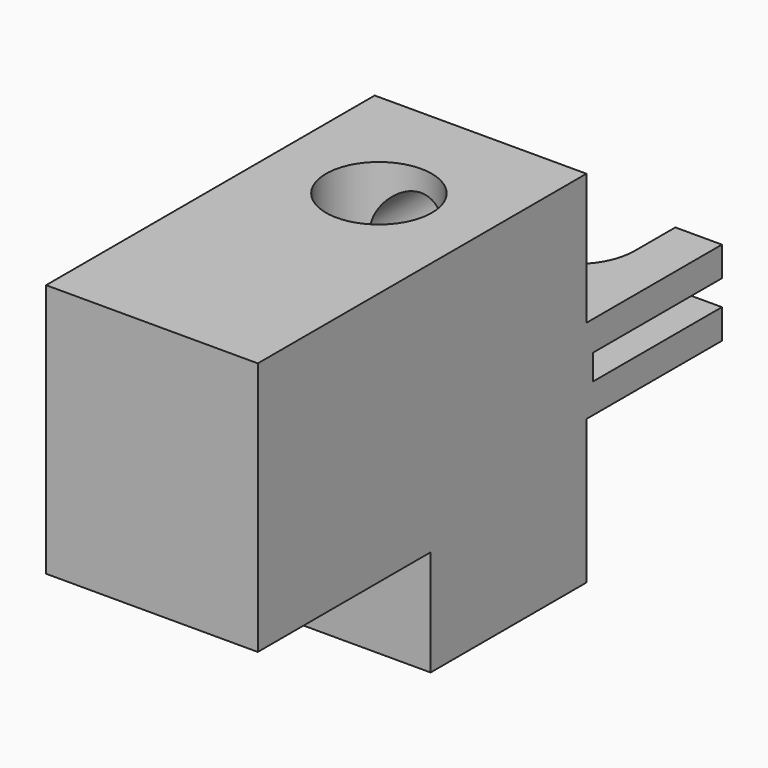
from build123d import *

# Parameters (mm, degrees)
F1_DEPTH = 5
F3_DEPTH = 5.401
F4_R     = 1.25
F5_DEPTH = 8.501
F6_R     = 0.9
F7_DEPTH = 7.7
F8_R     = 0.75
F9_DEPTH = 2.0010001


with BuildPart() as f1:
    # F0 (on Right) → F1 (new body)
    with BuildSketch(Plane.YZ):
        Polygon((9.7, 0), (0, 0), (0, -6), (5.1, -6), (5.1, -8.5), (9.7, -8.5), (9.7, -5.1), (13.7, -5.1), (13.7, -4.4), (9.9, -4.4), (9.9, -3.8), (13.7, -3.8), (13.7, -3.1), (9.7, -3.1), align=None)
    extrude(amount=F1_DEPTH)

    # F2 (on face) → F3 (cut, through all)
    with BuildSketch(Plane.XY.offset(-3.1)):
        with BuildLine():
            Line((1.1, 13.7), (1.1, 12.5))
            ThreePointArc((1.1, 12.5), (2.5, 11.1), (3.9, 12.5))
            Line((3.9, 12.5), (3.9, 13.7))
            Line((3.9, 13.7), (1.1, 13.7))
        make_face()
    extrude(amount=-F3_DEPTH, mode=Mode.SUBTRACT)

    # F4 (on face) → F5 (cut, through all)
    with BuildSketch(Plane.XY):
        with Locations((2.5, 6.7)):
            Circle(F4_R)
    extrude(amount=-F5_DEPTH, mode=Mode.SUBTRACT)

    # F6 (on face) → F7 (cut)
    with BuildSketch(Plane(origin=(0, 9.7, 0), x_dir=(-1, 0, 0), z_dir=(0, 1, 0))):
        with Locations((-2.5, -1.4)):
            Circle(F6_R)
    extrude(amount=-F7_DEPTH, mode=Mode.SUBTRACT)

    # F8 (on face) → F9 (cut, through all)
    with BuildSketch(Plane(origin=(0, 9.7, 0), x_dir=(-1, 0, 0), z_dir=(0, 1, 0))):
        with Locations((-2.5, -6.4)):
            Circle(F8_R)
    extrude(amount=-F9_DEPTH, mode=Mode.SUBTRACT)


solid = f1.part
